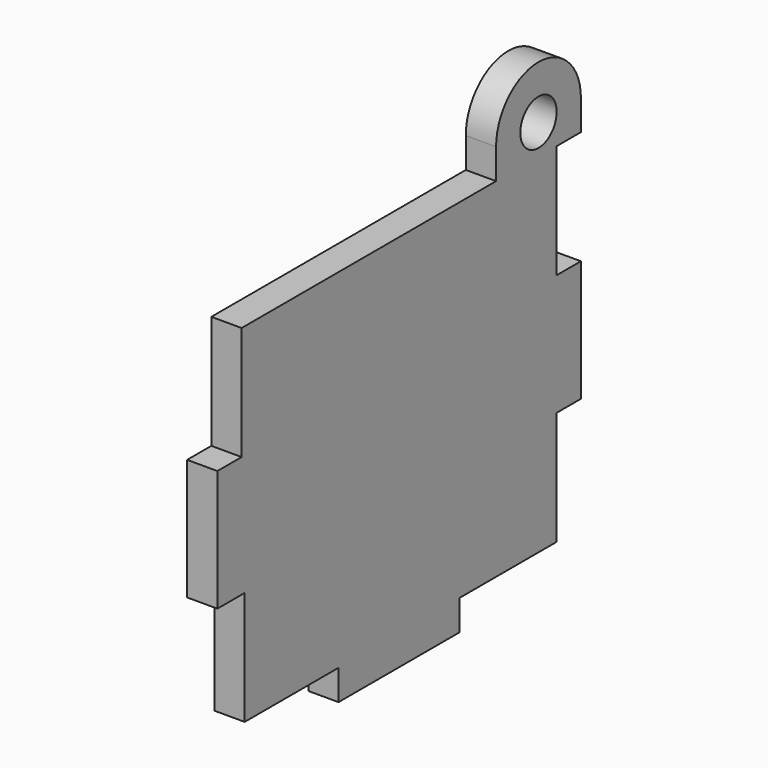
from build123d import *

# Parameters (mm, degrees)
F0_R     = 3
F1_DEPTH = 4


with BuildPart() as f1:
    # F0 (on Right) → F1 (new body)
    with BuildSketch(Plane.YZ):
        with BuildLine():
            Line((20, 4), (20, 0))
            Line((20, 0), (40, 0))
            Line((40, 0), (40, 4))
            Line((40, 4), (56, 4))
            Line((56, 4), (56, 19))
            Line((56, 19), (60, 19))
            Line((60, 19), (60, 35))
            Line((60, 35), (56, 35))
            Line((56, 35), (56, 50))
            Line((56, 50), (60, 50))
            Line((60, 50), (60, 54))
            ThreePointArc((60, 54), (53, 61), (46, 54))
            Line((46, 54), (46, 50))
            Line((46, 50), (4, 50))
            Line((4, 50), (4, 35))
            Line((4, 35), (0, 35))
            Line((0, 35), (0, 19))
            Line((0, 19), (4.510439, 19))
            Line((4.510439, 19), (4.510439, 4))
            Line((4.510439, 4), (20, 4))
        make_face()
        with Locations((53, 54)):
            Circle(F0_R, mode=Mode.SUBTRACT)
    extrude(amount=F1_DEPTH)


solid = f1.part
